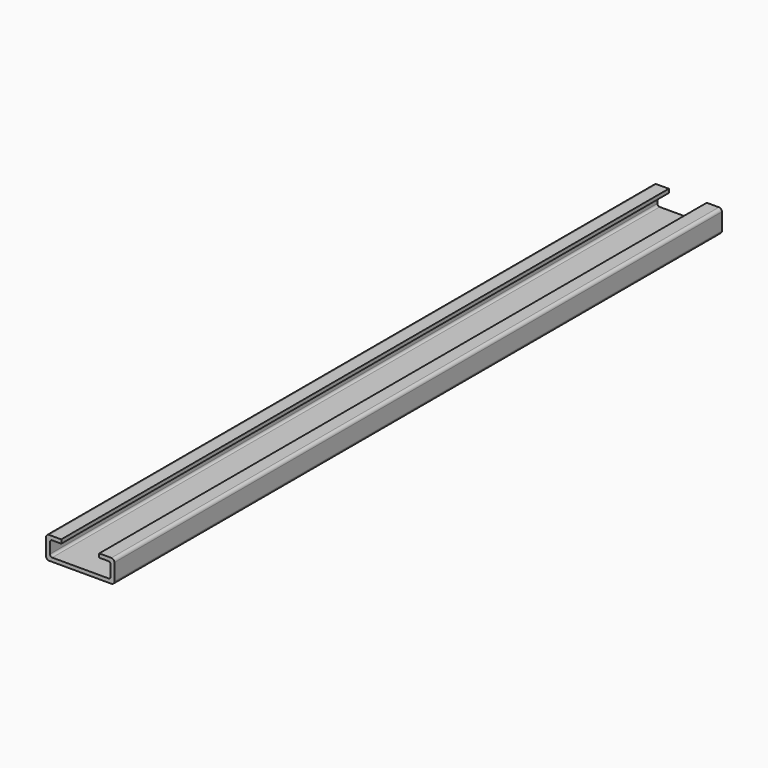
from build123d import *

# Parameters (mm, degrees)
F1_DEPTH = 500
F2_R     = 2
F3_R     = 1.5
F4_R     = 1.5


with BuildPart() as f1:
    # F0 (on Front) → F1 (new body)
    with BuildSketch(Plane.XZ):
        Polygon((-12.5, 18.558511), (-22.5, 18.558511), (-22.5, 3.558511), (22.5, 3.558511), (22.5, 18.558511), (12.5, 18.558511), (12.5, 16.058511), (20, 16.058511), (20, 6.058511), (-20, 6.058511), (-20, 16.058511), (-12.5, 16.058511), align=None)
    extrude(amount=F1_DEPTH)

    # F2
    f2_edges = [f1.edges().sort_by_distance(p)[0] for p in [
        (22.5, -250, 18.558511),
        (-22.5, -250, 18.558511),
        (-22.5, -250, 3.558511),
        (22.5, -250, 3.558511),
    ]]
    fillet(f2_edges, radius=F2_R)

    # F3
    f3_edges = [f1.edges().sort_by_distance(p)[0] for p in [
        (20, -250, 16.058511),
        (-20, -250, 16.058511),
    ]]
    fillet(f3_edges, radius=F3_R)

    # F4
    f4_edges = [f1.edges().sort_by_distance(p)[0] for p in [
        (-20, -250, 6.058511),
        (20, -250, 6.058511),
    ]]
    fillet(f4_edges, radius=F4_R)


solid = f1.part
